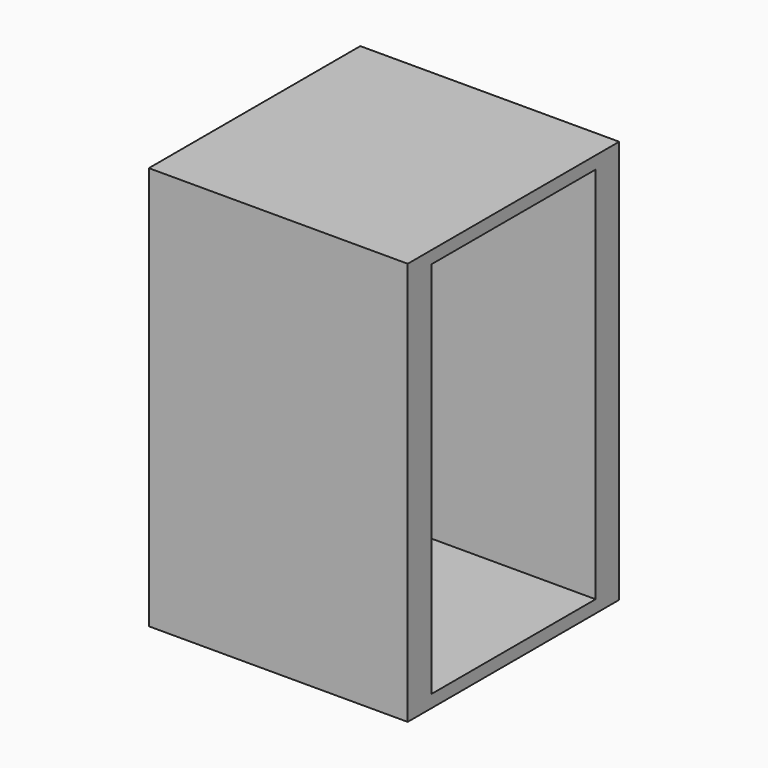
from build123d import *

# Parameters (mm, degrees)
F0_W     = 77.79774
F0_H     = 59.362259
F1_DEPTH = 76.2
F2_W     = 60.468386
F2_H     = 111.35032
F3_DEPTH = 50.8


with BuildPart() as f1:
    # F0 (on Right) → F1 (new body)
    with BuildSketch(Plane.YZ):
        with Locations((0, 29.681129)):
            Rectangle(F0_W, F0_H)
        with Locations((0, -29.681129)):
            Rectangle(F0_W, F0_H)
    extrude(amount=-F1_DEPTH)

    # F2 (on Right) → F3 (cut)
    with BuildSketch(Plane.YZ):
        Rectangle(F2_W, F2_H)
    extrude(amount=-F3_DEPTH, mode=Mode.SUBTRACT)


solid = f1.part
